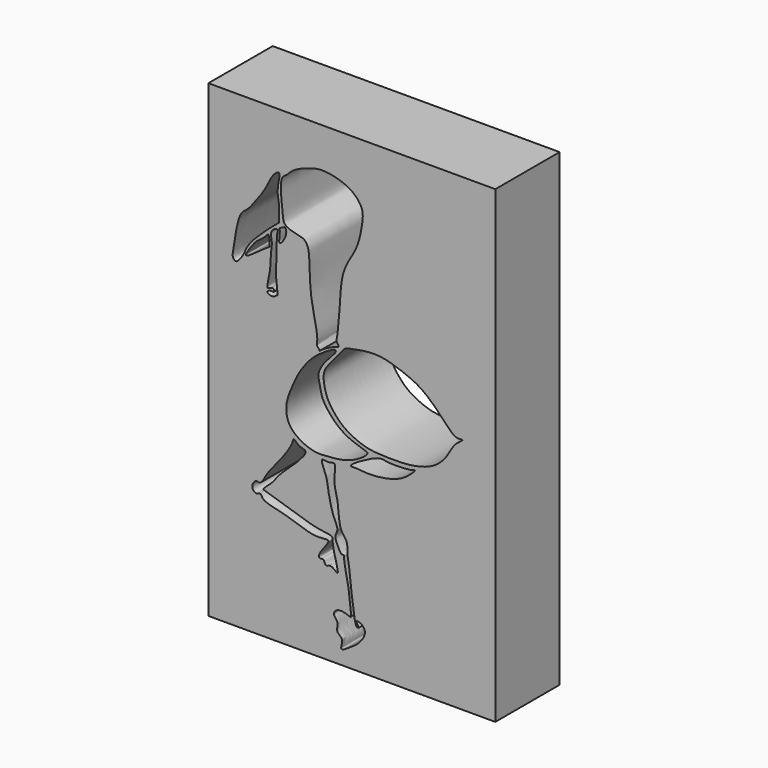
from build123d import *

# Parameters (mm, degrees)
F0_W     = 90.7122977078
F0_H     = 148.273922503
F1_DEPTH = 25.4


with BuildPart() as f1:
    # F0 (on Front) → F1 (new body)
    with BuildSketch(Plane.XZ):
        with Locations((0.3387648612, -0.9388737381)):
            Rectangle(F0_W, F0_H)
        with BuildLine():
            add(Edge.make_bspline(
                [(-9.0941814706, -19.9153479189), (-8.8420877653, -19.5892060283), (-7.0322380178, -20.3129510563), (-4.355698112, -18.782275836), (-5.7599137943, -25.1906688689), (-3.8389490386, -28.9917400178), (-3.8431645064, -37.8513410975), (-1.0834349686, -39.527006624), (-1.0206975185, -42.7118047268), (-1.1055029625, -43.9674987975), (-0.4627066721, -45.7555544895), (1.0513710711, -63.6256071498), (2.2608071807, -62.933269492), (2.7695303545, -62.9455242711), (2.1124481448, -62.2456479838), (1.5158521645, -61.1353204897), (2.5777006483, -61.2811484016), (3.5924783077, -61.6538087242), (5.150621328, -63.6951808721), (2.5836169187, -67.4015231441), (0.4240654191, -68.8142532454), (-4.0013480063, -71.8284987897), (-1.9684970577, -67.4818189945), (-4.9720295042, -66.4354918086), (-3.6111882978, -63.5154087555), (-5.8934986957, -61.914729426), (-4.3498483211, -59.6231125546), (-1.2832491285, -60.2809845941), (0.3071162409, -61.1031602469), (-0.074459645, -58.7889512031), (-0.4455606168, -54.8417094499), (-0.993680325, -50.858537865), (-2.3172532675, -45.573879581), (-1.9905685902, -43.9809530581), (-3.0995151351, -44.5747796368), (-4.3075355829, -41.9417462669), (-5.2445294256, -39.7696351968), (-3.7607237145, -37.735531275), (-5.4172692501, -35.1130561389), (-7.1816054195, -28.7090381758), (-7.3128098053, -24.3928804212), (-9.4565318826, -20.3841325255), (-9.0941814706, -19.9153479189)],
                knots=[0, 0, 0, 0, 0.0217530869, 0.0427953142, 0.0760237022, 0.1104899707, 0.154238824, 0.1803626436, 0.2062267035, 0.222101503, 0.2455893385, 0.3086907737, 0.3193724402, 0.3276694362, 0.3412070917, 0.356389315, 0.3688741072, 0.385262162, 0.4073215208, 0.4375657149, 0.4655936558, 0.4934260727, 0.5181941505, 0.5415081294, 0.5655057251, 0.5881339308, 0.6092027699, 0.6360892492, 0.6529072533, 0.6723747945, 0.7034227593, 0.7355676135, 0.7715494811, 0.7871393195, 0.7992794623, 0.8238623648, 0.8476449409, 0.8692869266, 0.8949852728, 0.9341224957, 0.9687328964, 1, 1, 1, 1], degree=3))
        make_face(mode=Mode.SUBTRACT)
        with BuildLine():
            add(Edge.make_bspline(
                [(-17.9543476552, -17.0962046832), (-17.6756899524, -17.0955847287), (-16.6731699287, -18.7503364966), (-13.4541305907, -18.8282125697), (-15.6103621819, -21.7844779603), (-18.5177392128, -24.7476465323), (-22.9358622433, -28.5613511049), (-24.5278147862, -31.4282102506), (-28.1828671635, -34.2270626301), (-26.8048558511, -34.4205039725), (-22.3157300209, -35.889929338), (-17.1549886194, -37.4456625181), (-10.6038828895, -39.7636296933), (-5.4781241059, -39.9038732637), (-5.9060293212, -41.4785576558), (-5.1312410389, -45.4097465991), (-3.3513457178, -51.3895772386), (-6.2288208206, -47.8419363082), (-8.1228548374, -49.6648620501), (-8.4065535041, -47.0411791618), (-10.0558489528, -47.9786178171), (-10.2283437035, -45.7891501474), (-5.2927751797, -40.9442472612), (-10.855765477, -42.3425610616), (-16.8428184995, -40.258628647), (-22.2353264491, -38.5395015092), (-28.0245772256, -37.4993274853), (-28.3385656249, -35.2859188984), (-30.0004006327, -36.4986654761), (-31.6768078011, -34.7494349132), (-30.1960672625, -32.1195081093), (-28.3666112741, -33.2829199132), (-26.6581839505, -29.2636618775), (-22.7115464273, -24.8426572203), (-18.4905978644, -19.1797510105), (-18.2112816378, -17.096776307), (-17.9543476552, -17.0962046832)],
                knots=[0, 0, 0, 0, 0.0228172055, 0.0481101716, 0.0737085439, 0.1093381085, 0.1484694034, 0.1806994787, 0.2120727, 0.224871884, 0.2603594115, 0.3000997191, 0.3450185858, 0.3790279514, 0.3951220832, 0.4306847193, 0.464076399, 0.4894828291, 0.5105929266, 0.5312614725, 0.5483801388, 0.5684535449, 0.6052147145, 0.6342545273, 0.6771450283, 0.7181864296, 0.7564941602, 0.7756333937, 0.7949612235, 0.817160788, 0.842115325, 0.8612545691, 0.8920009083, 0.9344273118, 0.9789615883, 1, 1, 1, 1], degree=3))
        make_face(mode=Mode.SUBTRACT)
        with BuildLine():
            add(Edge.make_bspline(
                [(5.2389586344, -13.5009335354), (5.1800833221, -14.289284582), (-0.385408934, -18.0203768168), (-7.2164883515, -18.3795717858), (-11.7784207027, -18.7960224888), (-17.2829767499, -16.252672785), (-20.1246794366, -12.9674031127), (-20.7393825876, -8.2027866695), (-18.8549847714, -3.1973157428), (-16.3626961864, 2.3763994077), (-12.6037072586, 7.2462438775), (-9.0123286205, 9.9655206732), (-4.8847024734, 12.4529274601), (-4.5780656579, 11.2751953466), (-7.2456557886, 8.8006909516), (-8.8964297651, 6.5980732181), (-10.6196776192, 3.6319606947), (-9.6689975232, 0.4256973023), (-9.2824529679, -3.0257156801), (-5.3992951692, -8.0685582662), (-1.192477789, -11.1111495368), (3.6036556123, -12.6978169804), (5.2673507201, -13.1207583903), (5.2389586344, -13.5009335354)],
                knots=[0, 0, 0, 0, 0.058006519, 0.1208924749, 0.1696732739, 0.2249345204, 0.2721580658, 0.3206895829, 0.3737174973, 0.431098469, 0.4873959005, 0.5391983871, 0.5853809104, 0.6014771371, 0.6441213116, 0.6845893711, 0.7254295667, 0.7661259915, 0.8088907753, 0.8657979343, 0.9196140681, 0.9720268821, 1, 1, 1, 1], degree=3))
        make_face(mode=Mode.SUBTRACT)
        with BuildLine():
            add(Edge.make_bspline(
                [(8.3236629143, -13.8424402103), (5.7146130549, -14.6993049693), (-1.9823981396, -19.087549657), (1.8784454474, -18.6380040088), (5.1330582734, -19.3234243681), (12.0843292959, -18.6342118223), (17.0599929467, -16.7705986318), (21.0048528727, -12.9023645775), (19.0104977632, -13.8613331267), (13.1310396083, -14.0428710992), (10.762358244, -13.7358649135), (9.6615549053, -13.4030494128), (8.3236629143, -13.8424402103)],
                knots=[0, 0, 0, 0, 0.1560408855, 0.2158348287, 0.3129707042, 0.4441563322, 0.5684822294, 0.6679752013, 0.7175733366, 0.8429087775, 0.919983955, 1, 1, 1, 1], degree=3))
        make_face(mode=Mode.SUBTRACT)
        with BuildLine():
            add(Edge.make_bspline(
                [(-26.0376464576, 37.1677465737), (-25.6890233027, 36.7900296656), (-25.5986701679, 33.5800897216), (-26.0468367239, 34.0877829805), (-35.0241732325, 26.782353103), (-31.5924599823, 32.0428450358), (-29.7619219168, 34.459282965), (-27.0841884109, 36.0360352812), (-26.2502872366, 37.3981329278), (-26.0376464576, 37.1677465737)],
                knots=[0, 0, 0, 0, 0.1534713267, 0.206111677, 0.4515038923, 0.5896425563, 0.7539929084, 0.906391007, 1, 1, 1, 1], degree=3))
        make_face(mode=Mode.SUBTRACT)
        with BuildLine():
            add(Edge.make_bspline(
                [(-25.0646471977, 38.3674390614), (-24.7375878056, 39.0752703063), (-23.3801644148, 39.976349245), (-22.9443467789, 39.0799812618), (-23.6319587374, 38.2384381193), (-23.1980424457, 30.8933701115), (-24.0916604655, 27.7701455362), (-22.8456603885, 21.0857559325), (-23.562186608, 21.2267464163), (-24.3682908187, 20.0920209828), (-27.1065572827, 20.9356075975), (-25.3811035064, 22.1169350212), (-24.168729156, 21.4538505278), (-24.1582366973, 22.9374391035), (-25.3461044129, 22.6344042137), (-27.0043149742, 21.680617938), (-25.1714600419, 27.582182746), (-25.4543351496, 32.1620701386), (-24.6416991773, 35.5300222171), (-25.441414522, 37.552028495), (-25.0646471977, 38.3674390614)],
                knots=[0, 0, 0, 0, 0.0547183445, 0.0827000018, 0.1194311439, 0.2185379317, 0.2989383664, 0.3901621115, 0.4113624832, 0.4537631939, 0.5062465098, 0.5481716301, 0.5874350635, 0.6214382043, 0.6597339352, 0.6974341002, 0.7806987391, 0.8677227597, 0.9369653196, 1, 1, 1, 1], degree=3))
        make_face(mode=Mode.SUBTRACT)
        with BuildLine():
            add(Edge.make_bspline(
                [(-20.2050513885, 55.7995567565), (-20.5643672442, 55.4591391855), (-22.8201438693, 54.8550537372), (-21.5300573988, 45.3690411506), (-21.4476099025, 42.4772055595), (-19.9201672678, 40.6195955771), (-14.9015842426, 40.039212903), (-14.2668728473, 38.9546744866), (-13.4500558178, 37.9646606029), (-12.8935084462, 33.6629528242), (-13.1418100734, 24.4585477985), (-9.9806914663, 13.3044286952), (-11.102165543, 11.267883984), (-9.9005970737, 10.6180645327), (-9.8996227777, 10.1010668119)],
                knots=[0, 0, 0, 0, 0.0620952734, 0.192786729, 0.2692638229, 0.332382122, 0.4282588317, 0.474082826, 0.5196821983, 0.6054173902, 0.7443155631, 0.8912922938, 0.948063631, 1, 1, 1, 1], degree=3))
            add(Edge.make_bspline(
                [(-20.2050513885, 55.7995567565), (-19.5948437275, 56.4525519993), (-18.144434289, 58.0040757564), (-12.9396733518, 60.1359793255), (-8.2631925622, 61.0901431807), (-0.779828926, 59.1380914776), (2.6145215962, 56.0146495026), (4.0361614651, 53.1373526106), (3.5238882593, 48.836861695), (2.1813462591, 42.472394504), (-0.9645318154, 38.0192824201), (-2.5287533608, 34.057249835), (-3.2223506536, 30.0202253504), (-3.4117405336, 24.8233721972), (-3.9608972965, 19.3758606015), (-4.186715644, 16.0395547317), (-4.7396153106, 14.602809745), (-3.585249576, 13.2681194577), (-4.33214731, 13.0697490731), (-7.2094543463, 11.9686667546), (-8.9077205676, 10.8256021509), (-9.8996227777, 10.1010668119)],
                knots=[0, 0, 0, 0, 0.0462956332, 0.1093310884, 0.1697195856, 0.2438488841, 0.3013462921, 0.3475194176, 0.4030456009, 0.4724794239, 0.535842218, 0.5909572544, 0.6452695262, 0.7075482545, 0.7719566486, 0.8208358341, 0.8533784189, 0.8847356101, 0.9025428429, 0.9493397005, 1, 1, 1, 1], degree=3))
        make_face(mode=Mode.SUBTRACT)
        with BuildLine():
            add(Edge.make_bspline(
                [(-22.6672627032, 55.4591391855), (-22.9316860666, 55.6632699349), (-24.855829155, 54.6141468071), (-26.8753564204, 49.246600321), (-30.5687580259, 44.7513082087), (-31.3406872861, 43.5510304414), (-32.7720012845, 41.9302097345), (-35.1812943522, 40.5023651964), (-36.4489001382, 34.3729415479), (-37.1545604996, 29.2058649695), (-37.4832116152, 27.5724223776), (-36.6633316928, 26.2097607249), (-35.4385421247, 26.8172987044), (-33.624234812, 29.4000958337), (-33.1710732518, 31.3194816443), (-30.5355565274, 34.6235489012), (-27.3614357368, 37.5514006222), (-24.1119689403, 40.5849933346), (-22.4840147878, 41.6453188107), (-22.793204046, 42.4656173911), (-22.4259474642, 46.6272300952), (-23.3764940789, 49.6969044535), (-22.8216721046, 53.1114499564), (-22.3756703731, 55.2340344138), (-22.6672627032, 55.4591391855)],
                knots=[0, 0, 0, 0, 0.0349286597, 0.1015498073, 0.1657031908, 0.1974358201, 0.2350767448, 0.2783902315, 0.345130001, 0.4070648517, 0.4408008238, 0.4700573247, 0.49751655, 0.5445158226, 0.5829680902, 0.6364320052, 0.6941423892, 0.7512329847, 0.7851581631, 0.8072310166, 0.8607953219, 0.9103696644, 0.961482491, 1, 1, 1, 1], degree=3))
        make_face(mode=Mode.SUBTRACT)
        with BuildLine():
            add(Edge.make_bspline(
                [(-21.2281625718, 40.818233043), (-21.5867978495, 40.5767720159), (-22.9303037667, 40.192177906), (-22.1460144772, 39.6689606443), (-22.9791635628, 35.9192743558), (-21.8182689072, 36.0749413622), (-19.8253242515, 39.4345803522), (-20.877947886, 41.3102156435), (-21.0422448248, 40.9434072601), (-21.2281625718, 40.818233043)],
                knots=[0, 0, 0, 0, 0.1476173281, 0.2356607733, 0.4576834775, 0.5415772725, 0.7760170513, 0.9234746754, 1, 1, 1, 1], degree=3))
        make_face(mode=Mode.SUBTRACT)
        with BuildLine():
            add(Edge.make_bspline(
                [(35.2933593094, 0), (35.3498614936, -0.1016019522), (34.0192271628, -0.9991271891), (32.2123587892, -2.6438215816), (30.1971495721, -6.8950766514), (25.9558138862, -10.8083409943), (19.4701770512, -12.4351372766), (14.3022932909, -12.6416909718), (8.0233363569, -12.5022481776), (4.420667913, -11.9493031657), (-0.1670572256, -10.1002997436), (-3.6705034578, -7.6129263884), (-6.7817084877, -3.7419462084), (-7.952104288, -0.9133675406), (-8.6349040599, 1.9806879769), (-8.6273509034, 5.1179285593), (-6.8168838213, 7.4680506187), (-4.1067568025, 10.4801932434), (-2.1365023872, 13.5025311447), (0.0553737132, 13.9579863063), (6.0322932405, 15.1087007574), (10.9809763523, 14.7185392041), (17.1312726841, 12.6495103897), (22.2538997306, 10.3793448901), (27.2869954035, 5.9044923324), (30.7952368196, 1.9382008989), (33.324418449, -0.3951868918), (35.2321605667, 0.110047281), (35.2933593094, 0)],
                knots=[0, 0, 0, 0, 0.0215700408, 0.0524495822, 0.0928256819, 0.1380788344, 0.1862011142, 0.2301411809, 0.2768772243, 0.3134211469, 0.3546105593, 0.394468939, 0.4361222269, 0.4691696009, 0.5016000943, 0.5341806628, 0.5661873395, 0.604976616, 0.6397419213, 0.6672076781, 0.7131277621, 0.7563326403, 0.8038131463, 0.8489686481, 0.8978829132, 0.9420759691, 0.9766370203, 1, 1, 1, 1], degree=3))
        make_face(mode=Mode.SUBTRACT)
    extrude(amount=F1_DEPTH)


solid = f1.part
